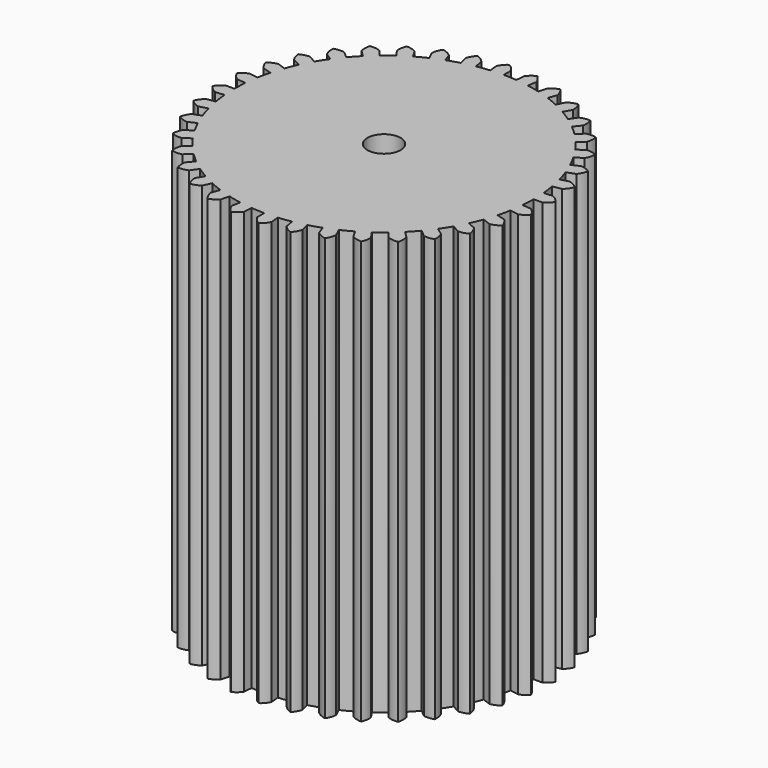
from build123d import *

# Parameters (mm, degrees)
F1_DEPTH = 50.8
F3_D     = 3.9878


with BuildPart() as f1:
    # F0 (on Top) → F1 (new body)
    with BuildSketch(Plane.XY):
        with BuildLine():
            Line((-1.660317, 18.977509), (-1.567339, 17.914768))
            ThreePointArc((-1.567339, 17.914768), (-2.347279, 17.829351), (-3.12275, 17.709995))
            ThreePointArc((-3.12275, 17.709995), (-3.767503, 17.584124), (-4.40723, 17.434787))
            ThreePointArc((-4.40723, 17.434787), (-4.530926, 17.403051), (-4.654395, 17.370437))
            ThreePointArc((-4.654395, 17.370437), (-5.407653, 17.150883), (-6.150617, 16.89868))
            ThreePointArc((-6.150617, 16.89868), (-6.881873, 16.61431), (-7.600029, 16.298314))
            ThreePointArc((-7.600029, 16.298314), (-8.303718, 15.951293), (-8.9916, 15.573908))
            ThreePointArc((-8.9916, 15.573908), (-9.662366, 15.166877), (-10.31474, 14.730975))
            ThreePointArc((-10.31474, 14.730975), (-10.947479, 14.267032), (-11.559378, 13.77593))
            ThreePointArc((-11.559378, 13.77593), (-12.149274, 13.258606), (-12.716043, 12.716043))
            ThreePointArc((-12.716043, 12.716043), (-13.258606, 12.149274), (-13.77593, 11.559378))
            ThreePointArc((-13.77593, 11.559378), (-14.267032, 10.947479), (-14.730975, 10.31474))
            ThreePointArc((-14.730975, 10.31474), (-15.166877, 9.662366), (-15.573908, 8.9916))
            ThreePointArc((-15.573908, 8.9916), (-15.951293, 8.303718), (-16.298314, 7.600029))
            ThreePointArc((-16.298314, 7.600029), (-16.61431, 6.881873), (-16.89868, 6.150617))
            ThreePointArc((-16.89868, 6.150617), (-17.150883, 5.407653), (-17.370437, 4.654395))
            ThreePointArc((-17.370437, 4.654395), (-17.556926, 3.892277), (-17.709995, 3.12275))
            ThreePointArc((-17.709995, 3.12275), (-17.829351, 2.347279), (-17.914768, 1.567339))
            ThreePointArc((-17.914768, 1.567339), (-17.966084, 0.784416), (-17.9832, 0))
            ThreePointArc((-17.9832, 0), (-17.966084, -0.784416), (-17.914768, -1.567339))
            ThreePointArc((-17.914768, -1.567339), (-17.829351, -2.347279), (-17.709995, -3.12275))
            ThreePointArc((-17.709995, -3.12275), (-17.556926, -3.892277), (-17.370437, -4.654395))
            ThreePointArc((-17.370437, -4.654395), (-17.150883, -5.407653), (-16.89868, -6.150617))
            ThreePointArc((-16.89868, -6.150617), (-16.61431, -6.881873), (-16.298314, -7.600029))
            ThreePointArc((-16.298314, -7.600029), (-15.951293, -8.303718), (-15.573908, -8.9916))
            ThreePointArc((-15.573908, -8.9916), (-15.166877, -9.662366), (-14.730975, -10.31474))
            ThreePointArc((-14.730975, -10.31474), (-14.267032, -10.947479), (-13.77593, -11.559378))
            ThreePointArc((-13.77593, -11.559378), (-13.258606, -12.149274), (-12.716043, -12.716043))
            ThreePointArc((-12.716043, -12.716043), (-12.149274, -13.258606), (-11.559378, -13.77593))
            ThreePointArc((-11.559378, -13.77593), (-10.947479, -14.267032), (-10.31474, -14.730975))
            ThreePointArc((-10.31474, -14.730975), (-9.662366, -15.166877), (-8.9916, -15.573908))
            ThreePointArc((-8.9916, -15.573908), (-8.303718, -15.951293), (-7.600029, -16.298314))
            ThreePointArc((-7.600029, -16.298314), (-6.881873, -16.61431), (-6.150617, -16.89868))
            ThreePointArc((-6.150617, -16.89868), (-5.407653, -17.150883), (-4.654395, -17.370437))
            ThreePointArc((-4.654395, -17.370437), (-3.892277, -17.556926), (-3.12275, -17.709995))
            ThreePointArc((-3.12275, -17.709995), (-2.347279, -17.829351), (-1.567339, -17.914768))
            ThreePointArc((-1.567339, -17.914768), (-0.784416, -17.966084), (0, -17.9832))
            ThreePointArc((0, -17.9832), (0.784416, -17.966084), (1.567339, -17.914768))
            ThreePointArc((1.567339, -17.914768), (2.347279, -17.829351), (3.12275, -17.709995))
            ThreePointArc((3.12275, -17.709995), (3.892277, -17.556926), (4.654395, -17.370437))
            ThreePointArc((4.654395, -17.370437), (5.407653, -17.150883), (6.150617, -16.89868))
            ThreePointArc((6.150617, -16.89868), (6.881873, -16.61431), (7.600029, -16.298314))
            ThreePointArc((7.600029, -16.298314), (8.303718, -15.951293), (8.9916, -15.573908))
            ThreePointArc((8.9916, -15.573908), (9.662366, -15.166877), (10.31474, -14.730975))
            ThreePointArc((10.31474, -14.730975), (10.947479, -14.267032), (11.559378, -13.77593))
            ThreePointArc((11.559378, -13.77593), (12.149274, -13.258606), (12.716043, -12.716043))
            ThreePointArc((12.716043, -12.716043), (13.258606, -12.149274), (13.77593, -11.559378))
            ThreePointArc((13.77593, -11.559378), (14.267032, -10.947479), (14.730975, -10.31474))
            ThreePointArc((14.730975, -10.31474), (15.166877, -9.662366), (15.573908, -8.9916))
            ThreePointArc((15.573908, -8.9916), (15.951293, -8.303718), (16.298314, -7.600029))
            ThreePointArc((16.298314, -7.600029), (16.61431, -6.881873), (16.89868, -6.150617))
            ThreePointArc((16.89868, -6.150617), (17.150883, -5.407653), (17.370437, -4.654395))
            ThreePointArc((17.370437, -4.654395), (17.556926, -3.892277), (17.709995, -3.12275))
            ThreePointArc((17.709995, -3.12275), (17.829351, -2.347279), (17.914768, -1.567339))
            ThreePointArc((17.914768, -1.567339), (17.966084, -0.784416), (17.9832, 0))
            ThreePointArc((17.9832, 0), (17.966084, 0.784416), (17.914768, 1.567339))
            ThreePointArc((17.914768, 1.567339), (17.829351, 2.347279), (17.709995, 3.12275))
            ThreePointArc((17.709995, 3.12275), (17.556926, 3.892277), (17.370437, 4.654395))
            ThreePointArc((17.370437, 4.654395), (17.150883, 5.407653), (16.89868, 6.150617))
            ThreePointArc((16.89868, 6.150617), (16.61431, 6.881873), (16.298314, 7.600029))
            ThreePointArc((16.298314, 7.600029), (15.951293, 8.303718), (15.573908, 8.9916))
            ThreePointArc((15.573908, 8.9916), (15.166877, 9.662366), (14.730975, 10.31474))
            ThreePointArc((14.730975, 10.31474), (14.267032, 10.947479), (13.77593, 11.559378))
            ThreePointArc((13.77593, 11.559378), (13.258606, 12.149274), (12.716043, 12.716043))
            ThreePointArc((12.716043, 12.716043), (12.149274, 13.258606), (11.559378, 13.77593))
            ThreePointArc((11.559378, 13.77593), (10.947479, 14.267032), (10.31474, 14.730975))
            ThreePointArc((10.31474, 14.730975), (9.662366, 15.166877), (8.9916, 15.573908))
            ThreePointArc((8.9916, 15.573908), (8.303718, 15.951293), (7.600029, 16.298314))
            ThreePointArc((7.600029, 16.298314), (6.881873, 16.61431), (6.150617, 16.89868))
            ThreePointArc((6.150617, 16.89868), (5.407653, 17.150883), (4.654395, 17.370437))
            ThreePointArc((4.654395, 17.370437), (3.892277, 17.556926), (3.12275, 17.709995))
            ThreePointArc((3.12275, 17.709995), (2.347279, 17.829351), (1.567339, 17.914768))
            ThreePointArc((1.567339, 17.914768), (0.784416, 17.966084), (0, 17.9832))
            Line((0, 17.9832), (0, 19.05))
            ThreePointArc((0, 19.05), (-0.377405, 19.544209), (-0.869894, 19.923857))
            ThreePointArc((-0.869894, 19.923857), (-1.327421, 19.502731), (-1.660317, 18.977509))
        make_face()
        with BuildLine():
            ThreePointArc((-4.40723, 17.434787), (-3.767503, 17.584124), (-3.12275, 17.709995))
            Line((-3.12275, 17.709995), (-3.307998, 18.760588))
            ThreePointArc((-3.307998, 18.760588), (-3.765488, 19.181753), (-4.31642, 19.470113))
            ThreePointArc((-4.31642, 19.470113), (-4.693868, 18.975936), (-4.930503, 18.400887))
            Line((-4.930503, 18.400887), (-4.654395, 17.370437))
            ThreePointArc((-4.654395, 17.370437), (-4.530926, 17.403051), (-4.40723, 17.434787))
        make_face()
        with BuildLine():
            Line((18.400887, 4.930503), (17.370437, 4.654395))
            ThreePointArc((17.370437, 4.654395), (17.556926, 3.892277), (17.709995, 3.12275))
            Line((17.709995, 3.12275), (18.760588, 3.307998))
            ThreePointArc((18.760588, 3.307998), (19.181753, 3.765488), (19.470113, 4.31642))
            ThreePointArc((19.470113, 4.31642), (18.975936, 4.693868), (18.400887, 4.930503))
        make_face()
        with BuildLine():
            Line((15.604846, 10.926631), (14.730975, 10.31474))
            ThreePointArc((14.730975, 10.31474), (15.166877, 9.662366), (15.573908, 8.9916))
            Line((15.573908, 8.9916), (16.497784, 9.525))
            ThreePointArc((16.497784, 9.525), (16.737079, 10.098947), (16.819619, 10.715279))
            ThreePointArc((16.819619, 10.715279), (16.22615, 10.900946), (15.604846, 10.926631))
        make_face()
        with BuildLine():
            Line((18.977509, 1.660317), (17.914768, 1.567339))
            ThreePointArc((17.914768, 1.567339), (17.966084, 0.784416), (17.9832, 0))
            Line((17.9832, 0), (19.05, 0))
            ThreePointArc((19.05, 0), (19.544209, 0.377405), (19.923857, 0.869894))
            ThreePointArc((19.923857, 0.869894), (19.502731, 1.327421), (18.977509, 1.660317))
        make_face()
        with BuildLine():
            Line((13.470384, 13.470384), (12.716043, 12.716043))
            ThreePointArc((12.716043, 12.716043), (13.258606, 12.149274), (13.77593, 11.559378))
            Line((13.77593, 11.559378), (14.593147, 12.245104))
            ThreePointArc((14.593147, 12.245104), (14.729142, 12.851885), (14.703403, 13.473186))
            ThreePointArc((14.703403, 13.473186), (14.086709, 13.552977), (13.470384, 13.470384))
        make_face()
        with BuildLine():
            Line((17.265163, 8.050878), (16.298314, 7.600029))
            ThreePointArc((16.298314, 7.600029), (16.61431, 6.881873), (16.89868, 6.150617))
            Line((16.89868, 6.150617), (17.901144, 6.515484))
            ThreePointArc((17.901144, 6.515484), (18.236469, 7.039158), (18.42478, 7.631794))
            ThreePointArc((18.42478, 7.631794), (17.872568, 7.917694), (17.265163, 8.050878))
        make_face()
        with BuildLine():
            ThreePointArc((-1.567339, -17.914768), (-2.347279, -17.829351), (-3.12275, -17.709995))
            Line((-3.12275, -17.709995), (-3.307998, -18.760588))
            ThreePointArc((-3.307998, -18.760588), (-3.022145, -19.312825), (-2.603063, -19.772225))
            ThreePointArc((-2.603063, -19.772225), (-2.079359, -19.436945), (-1.660317, -18.977509))
            Line((-1.660317, -18.977509), (-1.567339, -17.914768))
        make_face()
        with BuildLine():
            Line((8.050878, 17.265163), (7.600029, 16.298314))
            ThreePointArc((7.600029, 16.298314), (8.303718, 15.951293), (8.9916, 15.573908))
            Line((8.9916, 15.573908), (9.525, 16.497784))
            ThreePointArc((9.525, 16.497784), (9.445262, 17.114485), (9.208578, 17.689514))
            ThreePointArc((9.208578, 17.689514), (8.601785, 17.553571), (8.050878, 17.265163))
        make_face()
        with BuildLine():
            ThreePointArc((1.567339, -17.914768), (0.784416, -17.966084), (0, -17.9832))
            Line((0, -17.9832), (0, -19.05))
            ThreePointArc((0, -19.05), (0.377405, -19.544209), (0.869894, -19.923857))
            ThreePointArc((0.869894, -19.923857), (1.327421, -19.502731), (1.660317, -18.977509))
            Line((1.660317, -18.977509), (1.567339, -17.914768))
        make_face()
        with BuildLine():
            Line((4.930503, 18.400887), (4.654395, 17.370437))
            ThreePointArc((4.654395, 17.370437), (5.407653, 17.150883), (6.150617, 16.89868))
            Line((6.150617, 16.89868), (6.515484, 17.901144))
            ThreePointArc((6.515484, 17.901144), (6.329868, 18.49463), (5.996927, 19.019823))
            ThreePointArc((5.996927, 19.019823), (5.422959, 18.780577), (4.930503, 18.400887))
        make_face()
        with BuildLine():
            Line((4.930503, -18.400887), (4.654395, -17.370437))
            ThreePointArc((4.654395, -17.370437), (3.892277, -17.556926), (3.12275, -17.709995))
            Line((3.12275, -17.709995), (3.307998, -18.760588))
            ThreePointArc((3.307998, -18.760588), (3.765488, -19.181753), (4.31642, -19.470113))
            ThreePointArc((4.31642, -19.470113), (4.693868, -18.975936), (4.930503, -18.400887))
        make_face()
        with BuildLine():
            Line((1.660317, 18.977509), (1.567339, 17.914768))
            ThreePointArc((1.567339, 17.914768), (2.347279, 17.829351), (3.12275, 17.709995))
            Line((3.12275, 17.709995), (3.307998, 18.760588))
            ThreePointArc((3.307998, 18.760588), (3.022145, 19.312825), (2.603063, 19.772225))
            ThreePointArc((2.603063, 19.772225), (2.079359, 19.436945), (1.660317, 18.977509))
        make_face()
        with BuildLine():
            Line((8.050878, -17.265163), (7.600029, -16.298314))
            ThreePointArc((7.600029, -16.298314), (6.881873, -16.61431), (6.150617, -16.89868))
            Line((6.150617, -16.89868), (6.515484, -17.901144))
            ThreePointArc((6.515484, -17.901144), (7.039158, -18.236469), (7.631794, -18.42478))
            ThreePointArc((7.631794, -18.42478), (7.917694, -17.872568), (8.050878, -17.265163))
        make_face()
        with BuildLine():
            Line((10.926631, -15.604846), (10.31474, -14.730975))
            ThreePointArc((10.31474, -14.730975), (9.662366, -15.166877), (8.9916, -15.573908))
            Line((8.9916, -15.573908), (9.525, -16.497784))
            ThreePointArc((9.525, -16.497784), (10.098947, -16.737079), (10.715279, -16.819619))
            ThreePointArc((10.715279, -16.819619), (10.900946, -16.22615), (10.926631, -15.604846))
        make_face()
        with BuildLine():
            Line((13.470384, -13.470384), (12.716043, -12.716043))
            ThreePointArc((12.716043, -12.716043), (12.149274, -13.258606), (11.559378, -13.77593))
            Line((11.559378, -13.77593), (12.245104, -14.593147))
            ThreePointArc((12.245104, -14.593147), (12.851885, -14.729142), (13.473186, -14.703403))
            ThreePointArc((13.473186, -14.703403), (13.552977, -14.086709), (13.470384, -13.470384))
        make_face()
        with BuildLine():
            Line((15.604846, -10.926631), (14.730975, -10.31474))
            ThreePointArc((14.730975, -10.31474), (14.267032, -10.947479), (13.77593, -11.559378))
            Line((13.77593, -11.559378), (14.593147, -12.245104))
            ThreePointArc((14.593147, -12.245104), (15.214325, -12.273666), (15.821717, -12.140431))
            ThreePointArc((15.821717, -12.140431), (15.793208, -11.51925), (15.604846, -10.926631))
        make_face()
        with BuildLine():
            ThreePointArc((-4.654395, -17.370437), (-5.407653, -17.150883), (-6.150617, -16.89868))
            Line((-6.150617, -16.89868), (-6.515484, -17.901144))
            ThreePointArc((-6.515484, -17.901144), (-6.329868, -18.49463), (-5.996927, -19.019823))
            ThreePointArc((-5.996927, -19.019823), (-5.422959, -18.780577), (-4.930503, -18.400887))
            Line((-4.930503, -18.400887), (-4.654395, -17.370437))
        make_face()
        with BuildLine():
            ThreePointArc((-10.31474, -14.730975), (-10.947479, -14.267032), (-11.559378, -13.77593))
            Line((-11.559378, -13.77593), (-12.245104, -14.593147))
            ThreePointArc((-12.245104, -14.593147), (-12.273666, -15.214325), (-12.140431, -15.821717))
            ThreePointArc((-12.140431, -15.821717), (-11.51925, -15.793208), (-10.926631, -15.604846))
            Line((-10.926631, -15.604846), (-10.31474, -14.730975))
        make_face()
        with BuildLine():
            ThreePointArc((-7.600029, -16.298314), (-8.303718, -15.951293), (-8.9916, -15.573908))
            Line((-8.9916, -15.573908), (-9.525, -16.497784))
            ThreePointArc((-9.525, -16.497784), (-9.445262, -17.114485), (-9.208578, -17.689514))
            ThreePointArc((-9.208578, -17.689514), (-8.601785, -17.553571), (-8.050878, -17.265163))
            Line((-8.050878, -17.265163), (-7.600029, -16.298314))
        make_face()
        with BuildLine():
            ThreePointArc((-7.600029, 16.298314), (-6.881873, 16.61431), (-6.150617, 16.89868))
            Line((-6.150617, 16.89868), (-6.515484, 17.901144))
            ThreePointArc((-6.515484, 17.901144), (-7.039158, 18.236469), (-7.631794, 18.42478))
            ThreePointArc((-7.631794, 18.42478), (-7.917694, 17.872568), (-8.050878, 17.265163))
            Line((-8.050878, 17.265163), (-7.600029, 16.298314))
        make_face()
        with BuildLine():
            ThreePointArc((-10.31474, 14.730975), (-9.662366, 15.166877), (-8.9916, 15.573908))
            Line((-8.9916, 15.573908), (-9.525, 16.497784))
            ThreePointArc((-9.525, 16.497784), (-10.098947, 16.737079), (-10.715279, 16.819619))
            ThreePointArc((-10.715279, 16.819619), (-10.900946, 16.22615), (-10.926631, 15.604846))
            Line((-10.926631, 15.604846), (-10.31474, 14.730975))
        make_face()
        with BuildLine():
            ThreePointArc((-12.716043, 12.716043), (-12.149274, 13.258606), (-11.559378, 13.77593))
            Line((-11.559378, 13.77593), (-12.245104, 14.593147))
            ThreePointArc((-12.245104, 14.593147), (-12.851885, 14.729142), (-13.473186, 14.703403))
            ThreePointArc((-13.473186, 14.703403), (-13.552977, 14.086709), (-13.470384, 13.470384))
            Line((-13.470384, 13.470384), (-12.716043, 12.716043))
        make_face()
        with BuildLine():
            ThreePointArc((-14.730975, 10.31474), (-14.267032, 10.947479), (-13.77593, 11.559378))
            Line((-13.77593, 11.559378), (-14.593147, 12.245104))
            ThreePointArc((-14.593147, 12.245104), (-15.214325, 12.273666), (-15.821717, 12.140431))
            ThreePointArc((-15.821717, 12.140431), (-15.793208, 11.51925), (-15.604846, 10.926631))
            Line((-15.604846, 10.926631), (-14.730975, 10.31474))
        make_face()
        with BuildLine():
            ThreePointArc((-16.298314, 7.600029), (-15.951293, 8.303718), (-15.573908, 8.9916))
            Line((-15.573908, 8.9916), (-16.497784, 9.525))
            ThreePointArc((-16.497784, 9.525), (-17.114485, 9.445262), (-17.689514, 9.208578))
            ThreePointArc((-17.689514, 9.208578), (-17.553571, 8.601785), (-17.265163, 8.050878))
            Line((-17.265163, 8.050878), (-16.298314, 7.600029))
        make_face()
        with BuildLine():
            ThreePointArc((-17.370437, 4.654395), (-17.150883, 5.407653), (-16.89868, 6.150617))
            Line((-16.89868, 6.150617), (-17.901144, 6.515484))
            ThreePointArc((-17.901144, 6.515484), (-18.49463, 6.329868), (-19.019823, 5.996927))
            ThreePointArc((-19.019823, 5.996927), (-18.780577, 5.422959), (-18.400887, 4.930503))
            Line((-18.400887, 4.930503), (-17.370437, 4.654395))
        make_face()
        with BuildLine():
            ThreePointArc((-17.914768, 1.567339), (-17.829351, 2.347279), (-17.709995, 3.12275))
            Line((-17.709995, 3.12275), (-18.760588, 3.307998))
            ThreePointArc((-18.760588, 3.307998), (-19.312825, 3.022145), (-19.772225, 2.603063))
            ThreePointArc((-19.772225, 2.603063), (-19.436945, 2.079359), (-18.977509, 1.660317))
            Line((-18.977509, 1.660317), (-17.914768, 1.567339))
        make_face()
        with BuildLine():
            ThreePointArc((-17.914768, -1.567339), (-17.966084, -0.784416), (-17.9832, 0))
            Line((-17.9832, 0), (-19.05, 0))
            ThreePointArc((-19.05, 0), (-19.544209, -0.377405), (-19.923857, -0.869894))
            ThreePointArc((-19.923857, -0.869894), (-19.502731, -1.327421), (-18.977509, -1.660317))
            Line((-18.977509, -1.660317), (-17.914768, -1.567339))
        make_face()
        with BuildLine():
            ThreePointArc((-17.370437, -4.654395), (-17.556926, -3.892277), (-17.709995, -3.12275))
            Line((-17.709995, -3.12275), (-18.760588, -3.307998))
            ThreePointArc((-18.760588, -3.307998), (-19.181753, -3.765488), (-19.470113, -4.31642))
            ThreePointArc((-19.470113, -4.31642), (-18.975936, -4.693868), (-18.400887, -4.930503))
            Line((-18.400887, -4.930503), (-17.370437, -4.654395))
        make_face()
        with BuildLine():
            ThreePointArc((-16.298314, -7.600029), (-16.61431, -6.881873), (-16.89868, -6.150617))
            Line((-16.89868, -6.150617), (-17.901144, -6.515484))
            ThreePointArc((-17.901144, -6.515484), (-18.236469, -7.039158), (-18.42478, -7.631794))
            ThreePointArc((-18.42478, -7.631794), (-17.872568, -7.917694), (-17.265163, -8.050878))
            Line((-17.265163, -8.050878), (-16.298314, -7.600029))
        make_face()
        with BuildLine():
            ThreePointArc((-14.730975, -10.31474), (-15.166877, -9.662366), (-15.573908, -8.9916))
            Line((-15.573908, -8.9916), (-16.497784, -9.525))
            ThreePointArc((-16.497784, -9.525), (-16.737079, -10.098947), (-16.819619, -10.715279))
            ThreePointArc((-16.819619, -10.715279), (-16.22615, -10.900946), (-15.604846, -10.926631))
            Line((-15.604846, -10.926631), (-14.730975, -10.31474))
        make_face()
        with BuildLine():
            ThreePointArc((-12.716043, -12.716043), (-13.258606, -12.149274), (-13.77593, -11.559378))
            Line((-13.77593, -11.559378), (-14.593147, -12.245104))
            ThreePointArc((-14.593147, -12.245104), (-14.729142, -12.851885), (-14.703403, -13.473186))
            ThreePointArc((-14.703403, -13.473186), (-14.086709, -13.552977), (-13.470384, -13.470384))
            Line((-13.470384, -13.470384), (-12.716043, -12.716043))
        make_face()
        with BuildLine():
            Line((17.265163, -8.050878), (16.298314, -7.600029))
            ThreePointArc((16.298314, -7.600029), (15.951293, -8.303718), (15.573908, -8.9916))
            Line((15.573908, -8.9916), (16.497784, -9.525))
            ThreePointArc((16.497784, -9.525), (17.114485, -9.445262), (17.689514, -9.208578))
            ThreePointArc((17.689514, -9.208578), (17.553571, -8.601785), (17.265163, -8.050878))
        make_face()
        with BuildLine():
            Line((18.400887, -4.930503), (17.370437, -4.654395))
            ThreePointArc((17.370437, -4.654395), (17.150883, -5.407653), (16.89868, -6.150617))
            Line((16.89868, -6.150617), (17.901144, -6.515484))
            ThreePointArc((17.901144, -6.515484), (18.49463, -6.329868), (19.019823, -5.996927))
            ThreePointArc((19.019823, -5.996927), (18.780577, -5.422959), (18.400887, -4.930503))
        make_face()
        with BuildLine():
            Line((10.926631, 15.604846), (10.31474, 14.730975))
            ThreePointArc((10.31474, 14.730975), (10.947479, 14.267032), (11.559378, 13.77593))
            Line((11.559378, 13.77593), (12.245104, 14.593147))
            ThreePointArc((12.245104, 14.593147), (12.273666, 15.214325), (12.140431, 15.821717))
            ThreePointArc((12.140431, 15.821717), (11.51925, 15.793208), (10.926631, 15.604846))
        make_face()
        with BuildLine():
            Line((18.977509, -1.660317), (17.914768, -1.567339))
            ThreePointArc((17.914768, -1.567339), (17.829351, -2.347279), (17.709995, -3.12275))
            Line((17.709995, -3.12275), (18.760588, -3.307998))
            ThreePointArc((18.760588, -3.307998), (19.312825, -3.022145), (19.772225, -2.603063))
            ThreePointArc((19.772225, -2.603063), (19.436945, -2.079359), (18.977509, -1.660317))
        make_face()
    extrude(amount=F1_DEPTH)

    # F3 (through all)
    with Locations(Plane.XY.offset(50.8)):
        with Locations((0, 0)):
            Hole(F3_D / 2)


solid = f1.part
